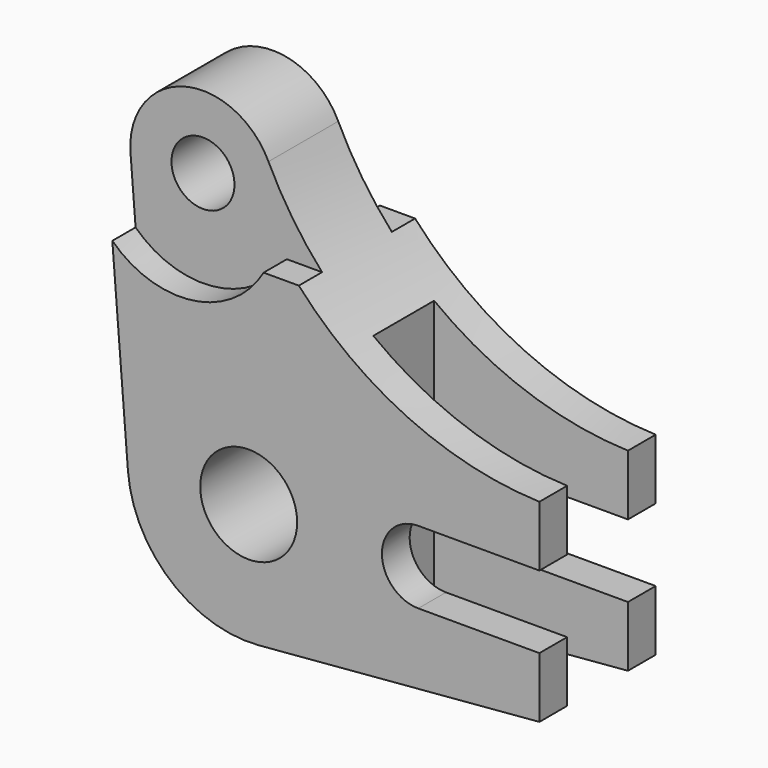
from build123d import *

# Parameters (mm, degrees)
SKETCH_R        = 10
SKETCH_R_2      = 6.5
PAD_DEPTH       = 15
SKETCH001_R     = 20
POCKET_DEPTH    = 6
SKETCH002_R     = 20
POCKET001_DEPTH = 6
SKETCH003_W     = 105.189392
SKETCH003_H     = 15.694074
POCKET002_DEPTH = 40
SKETCH004_W     = 18.945393
SKETCH004_H     = 8.112743
POCKET003_DEPTH = 6
SKETCH005_W     = 34.537269
SKETCH005_H     = 10.152644
POCKET004_DEPTH = 6


with BuildPart() as part:
    # Sketch → Pad (new body, symmetric)
    with BuildSketch(Plane.XZ):
        with BuildLine():
            ThreePointArc((-24.922099, -1.972055), (-16.174238, -19.062897), (2.11311, -24.910535))
            Line((2.11311, -24.910535), (60, -20))
            Line((60, -20), (60, -7.5))
            Line((60, -7.5), (35, -7.5))
            ThreePointArc((35, 7.5), (27.5, 0), (35, -7.5))
            Line((35, 7.5), (60, 7.5))
            Line((60, 7.5), (60, 20))
            ThreePointArc((-0.716595, 59.626032), (24.111636, 31.339626), (60, 20))
            ThreePointArc((-0.716595, 59.626032), (-18.14313, 67.607871), (-29.188307, 51.942687))
            Line((-24.922099, -1.972055), (-29.188307, 51.942687))
        make_face()
        Circle(SKETCH_R, mode=Mode.SUBTRACT)
        with Locations((-14.235047, 53.12592)):
            Circle(SKETCH_R_2, mode=Mode.SUBTRACT)
    extrude(amount=PAD_DEPTH, both=True)

    # Sketch001 → Pocket (cut)
    with BuildSketch(Plane.XZ.offset(15)):
        with Locations((-14.235047, 53.12592)):
            Circle(SKETCH001_R)
    extrude(amount=-POCKET_DEPTH, mode=Mode.SUBTRACT)

    # Sketch002 → Pocket001 (cut)
    with BuildSketch(Plane(origin=(0, 15, 0), x_dir=(1, 0, 0), z_dir=(0, 1, 0))):
        with Locations((-14.235047, -53.12592)):
            Circle(SKETCH002_R)
    extrude(amount=-POCKET001_DEPTH, mode=Mode.SUBTRACT)

    # Sketch003 → Pocket002 (cut)
    with BuildSketch(Plane(origin=(60, 0, 0), x_dir=(0, 0, 1), z_dir=(1, 0, 0))):
        with Locations((20.110367, 0)):
            Rectangle(SKETCH003_W, SKETCH003_H)
    extrude(amount=-POCKET002_DEPTH, mode=Mode.SUBTRACT)

    # Sketch004 → Pocket003 (cut)
    with BuildSketch(Plane.XZ.offset(15)):
        with Locations((5.87438, 47.182291)):
            Rectangle(SKETCH004_W, SKETCH004_H)
    extrude(amount=-POCKET003_DEPTH, mode=Mode.SUBTRACT)

    # Sketch005 → Pocket004 (cut)
    with BuildSketch(Plane(origin=(0, 15, 0), x_dir=(1, 0, 0), z_dir=(0, 1, 0))):
        with Locations((9.807045, -48.202242)):
            Rectangle(SKETCH005_W, SKETCH005_H)
    extrude(amount=-POCKET004_DEPTH, mode=Mode.SUBTRACT)


solid = part.part
